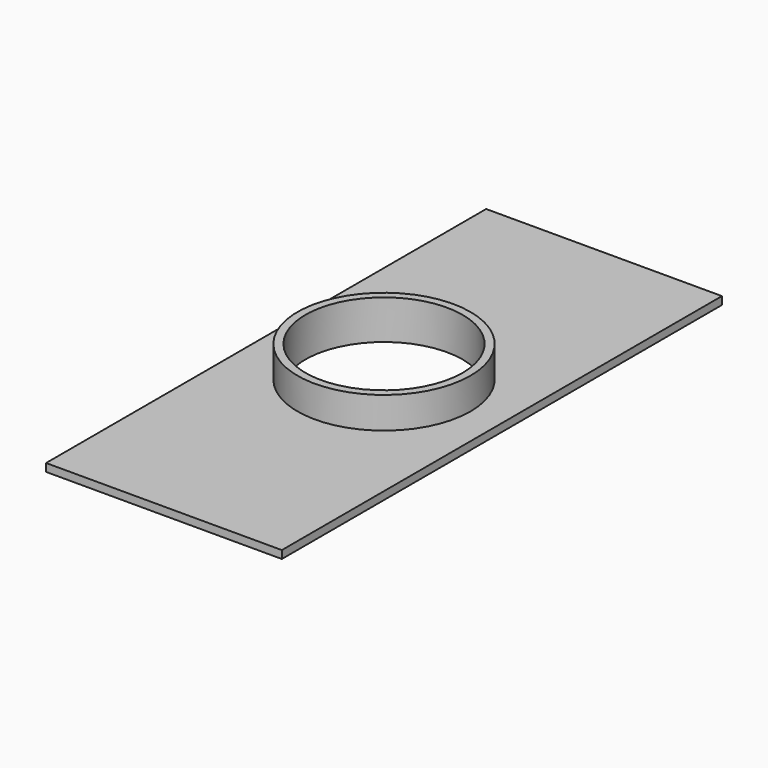
from build123d import *

# Parameters (mm, degrees)
F0_W     = 150
F0_H     = 350
F1_DEPTH = 5
F2_R     = 50
F3_DEPTH = 5
F2_R_2   = 55
F4_DEPTH = 20


with BuildPart() as f1:
    # F0 (on Top) → F1 (new body)
    with BuildSketch(Plane.XY):
        Rectangle(F0_W, F0_H)
    extrude(amount=F1_DEPTH)

    # F2 (on face) → F3 (cut, through all)
    with BuildSketch(Plane.XY.offset(5)):
        Circle(F2_R)
    extrude(amount=-F3_DEPTH, mode=Mode.SUBTRACT)

    # F2 (on face) → F4 (join)
    with BuildSketch(Plane.XY.offset(5)):
        Circle(F2_R_2)
        Circle(F2_R, mode=Mode.SUBTRACT)
    extrude(amount=F4_DEPTH)


solid = f1.part
